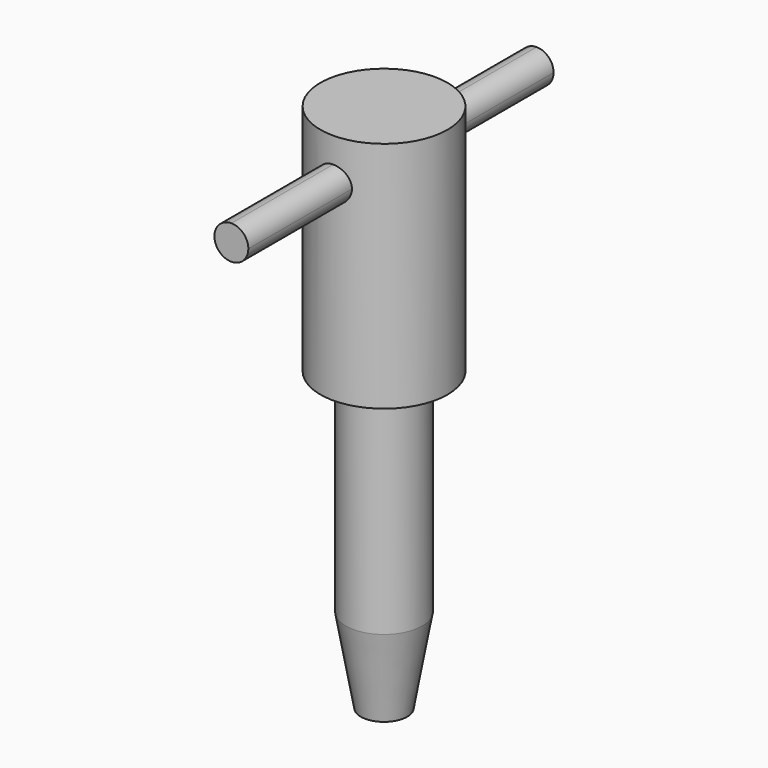
from build123d import *

# Parameters (mm, degrees)
F3_DEPTH = 45


with BuildPart() as f1:
    # F0 (on Front) → F1 (revolve)
    with BuildSketch(Plane.XZ):
        Polygon((0, 55), (0, 0), (0, -70), (5.47346, -70), (9, -50), (9, 0), (15, 0), (15, 55), align=None)
    revolve(axis=Axis((0, 0, 27.5), (0, 0, -1)))

    # F2 (on Front) → F3 (join, symmetric)
    with BuildSketch(Plane.XZ):
        with BuildLine():
            ThreePointArc((0, 49), (-2.828427, 42.171573), (4, 45))
            ThreePointArc((4, 45), (2.828427, 47.828427), (0, 49))
        make_face()
    extrude(amount=F3_DEPTH, both=True)


solid = f1.part
